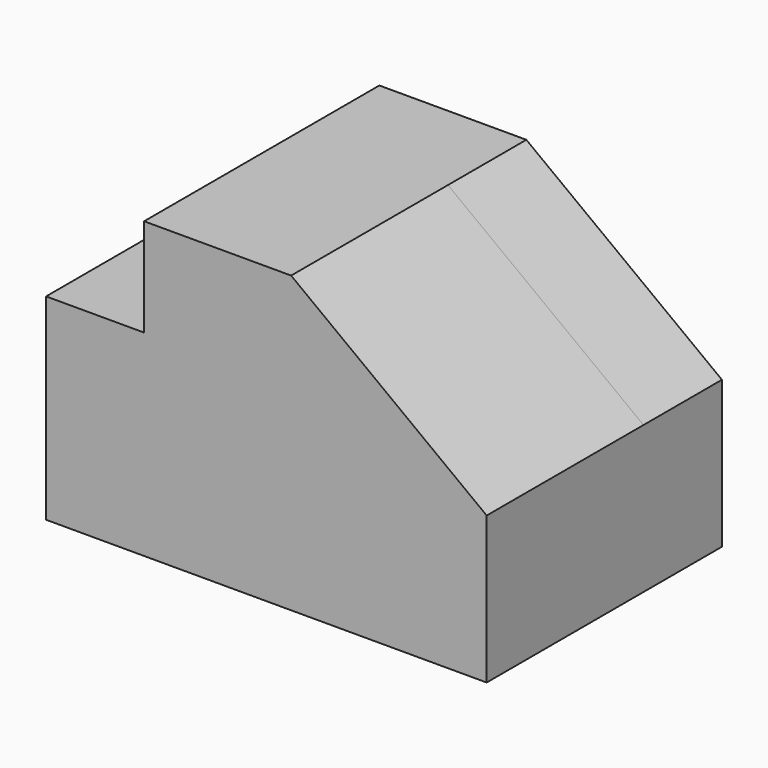
from build123d import *

# Parameters (mm, degrees)
F1_DEPTH = 25.4
F2_DEPTH = 50.8


with BuildPart() as f1:
    # F0 (on Front) → F1 (new body)
    with BuildSketch(Plane.XZ):
        Polygon((-63.979626, -56.460958), (-38.702766, -56.460958), (50.197234, -56.460958), (50.197234, -18.360958), (-0.479626, 19.902679), (-38.579626, 19.902679), (-38.579626, -5.497321), (-63.979626, -5.497321), (-63.979626, -45.96319), (-63.979626, -48.23298), align=None)
    extrude(amount=F1_DEPTH)

    # F0 (on Front) + F1_face (on face) → F2 (join)
    with BuildSketch(Plane.XZ):
        Polygon((-63.979626, -56.460958), (-38.702766, -56.460958), (50.197234, -56.460958), (50.197234, -18.360958), (-0.479626, 19.902679), (-38.579626, 19.902679), (-38.579626, -5.497321), (-63.979626, -5.497321), (-63.979626, -45.96319), (-63.979626, -48.23298), align=None)
    with BuildSketch(Plane(origin=(-8.345837, -25.4, -24.063362), x_dir=(1, 0, 0), z_dir=(0, -1, 0))):
        Polygon((-55.633788, -32.397596), (58.543071, -32.397596), (58.543071, 5.702404), (7.866212, 43.966041), (-30.233788, 43.966041), (-30.233788, 18.566041), (-55.633788, 18.566041), align=None)
    extrude(amount=F2_DEPTH)


solid = f1.part
